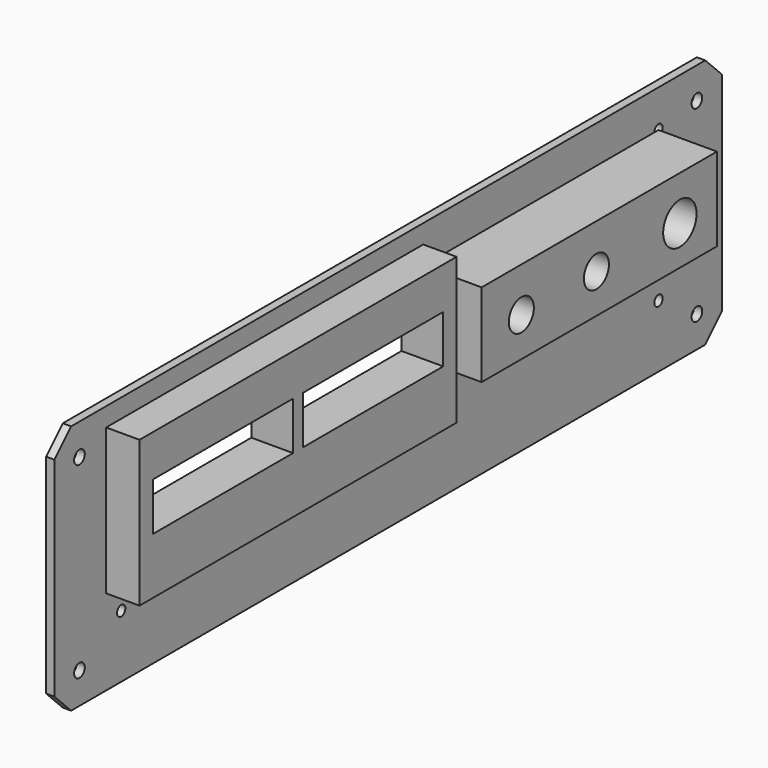
from build123d import *

# Parameters (mm, degrees)
SKETCH_W        = 200
SKETCH_H        = 60
PAD_DEPTH       = 2
SKETCH002_R     = 1.6
POCKET001_DEPTH = 5
CHAMFER_SIZE    = 5
SKETCH004_R     = 1.25
POCKET_DEPTH    = 2.001
SKETCH003_W     = 95
SKETCH003_H     = 35
PAD001_DEPTH    = 8
SKETCH005_W     = 42
SKETCH005_H     = 11.5
POCKET002_DEPTH = 10.001
SKETCH006_W     = 70.5
SKETCH006_H     = 20
PAD002_DEPTH    = 14
SKETCH007_R     = 5
SKETCH007_R_2   = 3.75
POCKET003_DEPTH = 16.001


with BuildPart() as part:
    # Sketch → Pad (new body)
    with BuildSketch(Plane.YZ):
        with Locations((100, 30)):
            Rectangle(SKETCH_W, SKETCH_H)
    extrude(amount=PAD_DEPTH)

    # Sketch002 → Pocket001 (cut)
    with BuildSketch(Plane.YZ.offset(2)):
        with Locations((7.5, 52.5)):
            Circle(SKETCH002_R)
        with Locations((7.5, 7.5)):
            Circle(SKETCH002_R)
        with Locations((192.5, 7.5)):
            Circle(SKETCH002_R)
        with Locations((192.5, 52.5)):
            Circle(SKETCH002_R)
    extrude(amount=-POCKET001_DEPTH, mode=Mode.SUBTRACT)

    # Chamfer
    chamfer_edges = [part.edges().sort_by_distance(p)[0] for p in [
        (1, 0, 0),
        (1, 0, 60),
        (1, 200, 60),
        (1, 200, 0),
    ]]
    chamfer(chamfer_edges, length=CHAMFER_SIZE)

    # Sketch004 (on Face5 of Chamfer) → Pocket (cut, through all)
    with BuildSketch(Plane.YZ.offset(2)):
        with Locations((20, 51)):
            Circle(SKETCH004_R)
        with Locations((20, 15)):
            Circle(SKETCH004_R)
        with Locations((181, 15)):
            Circle(SKETCH004_R)
        with Locations((181, 51)):
            Circle(SKETCH004_R)
    extrude(amount=-POCKET_DEPTH, mode=Mode.SUBTRACT)

    # Sketch003 → Pad001 (join)
    with BuildSketch(Plane.YZ.offset(2)):
        with Locations((63, 38)):
            Rectangle(SKETCH003_W, SKETCH003_H)
    extrude(amount=PAD001_DEPTH)

    # Sketch005 (on Face24 of Pad001) → Pocket002 (cut, through all)
    with BuildSketch(Plane.YZ.offset(10)):
        with Locations((40.5, 39.75)):
            Rectangle(SKETCH005_W, SKETCH005_H)
        with Locations((85.5, 39.75)):
            Rectangle(SKETCH005_W, SKETCH005_H)
    extrude(amount=-POCKET002_DEPTH, mode=Mode.SUBTRACT)

    # Sketch006 (on Face5 of Pocket002) → Pad002 (join)
    with BuildSketch(Plane.YZ.offset(2)):
        with Locations((145.75, 41)):
            Rectangle(SKETCH006_W, SKETCH006_H)
    extrude(amount=PAD002_DEPTH)

    # Sketch007 (on Face2 of Pad002) → Pocket003 (cut, through all)
    with BuildSketch(Plane(origin=(0, 0, 0), x_dir=(0, 1, 0), z_dir=(-1, 0, 0))):
        with Locations((169.9, -40.375)):
            Circle(SKETCH007_R)
        with Locations((144.9, -40.375)):
            Circle(SKETCH007_R_2)
        with Locations((122.4, -40.375)):
            Circle(SKETCH007_R_2)
    extrude(amount=-POCKET003_DEPTH, mode=Mode.SUBTRACT)


with BuildPart() as part_1:
    # Body placement: moved
    add(part.part.moved(Location((0, 1.067224, 0))))


solid = part_1.part
